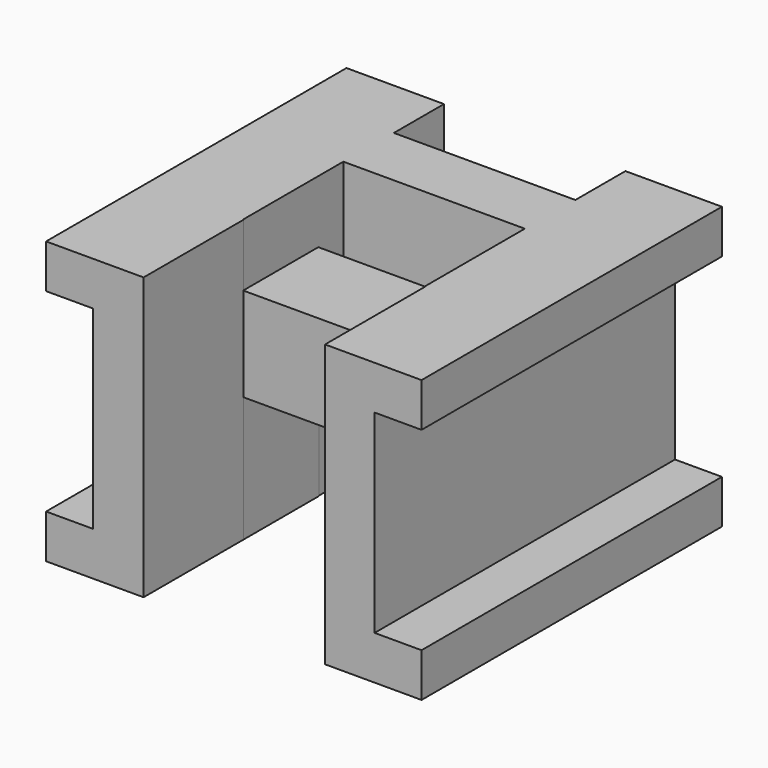
from build123d import *

# Parameters (mm, degrees)
F0_W      = 152.4
F0_H      = 114.3
F1_DEPTH  = 152.4
F2_W      = 19.05
F2_H      = 78.74
F3_DEPTH  = 152.401
F4_DEPTH  = 152.401
F5_W      = 73.66
F5_H      = 50.8
F5_H_2    = 25.4
F6_DEPTH  = 114.301
F7_W      = 73.66
F7_H      = 12.7
F8_DEPTH  = 114.301
F9_DEPTH  = 25.4
F10_W     = 73.456201
F10_H     = 38.1
F11_DEPTH = 50.8


with BuildPart() as f1:
    # F0 (on Front) → F1 (new body)
    with BuildSketch(Plane.XZ):
        Rectangle(F0_W, F0_H)
    extrude(amount=F1_DEPTH)

    # F2 (on face) → F3 (cut, through all)
    with BuildSketch(Plane.XZ.offset(152.4)):
        with Locations((-66.675, 0)):
            Rectangle(F2_W, F2_H)
    extrude(amount=-F3_DEPTH, mode=Mode.SUBTRACT)

    # F2 (on face) → F4 (cut, through all)
    with BuildSketch(Plane.XZ.offset(152.4)):
        with Locations((66.675, 0)):
            Rectangle(F2_W, F2_H)
    extrude(amount=-F4_DEPTH, mode=Mode.SUBTRACT)

    # F5 (on face) → F6 (cut, through all)
    with BuildSketch(Plane.XY.offset(57.15)):
        with Locations((0.203799, -127)):
            Rectangle(F5_W, F5_H)
        with Locations((0.203799, -12.7)):
            Rectangle(F5_W, F5_H_2)
    extrude(amount=-F6_DEPTH, mode=Mode.SUBTRACT)

    # F7 (on face) → F8 (cut, through all)
    with BuildSketch(Plane.XY.offset(57.15)):
        with Locations((0, -57.15)):
            Rectangle(F7_W, F7_H)
    extrude(amount=-F8_DEPTH, mode=Mode.SUBTRACT)

    # F7 (on face) → F9 (cut)
    with BuildSketch(Plane.XY.offset(57.15)):
        Polygon((-36.83, -63.5), (-36.83, -101.6), (-36.626201, -101.6), (36.83, -101.6), (36.83, -63.5), align=None)
    extrude(amount=-F9_DEPTH, mode=Mode.SUBTRACT)

    # F10 (on face) → F11 (cut)
    with BuildSketch(Plane(origin=(0, 0, -57.15), x_dir=(1, 0, 0), z_dir=(0, 0, -1))):
        with Locations((0.101899, 82.55)):
            Rectangle(F10_W, F10_H)
    extrude(amount=-F11_DEPTH, mode=Mode.SUBTRACT)


solid = f1.part
